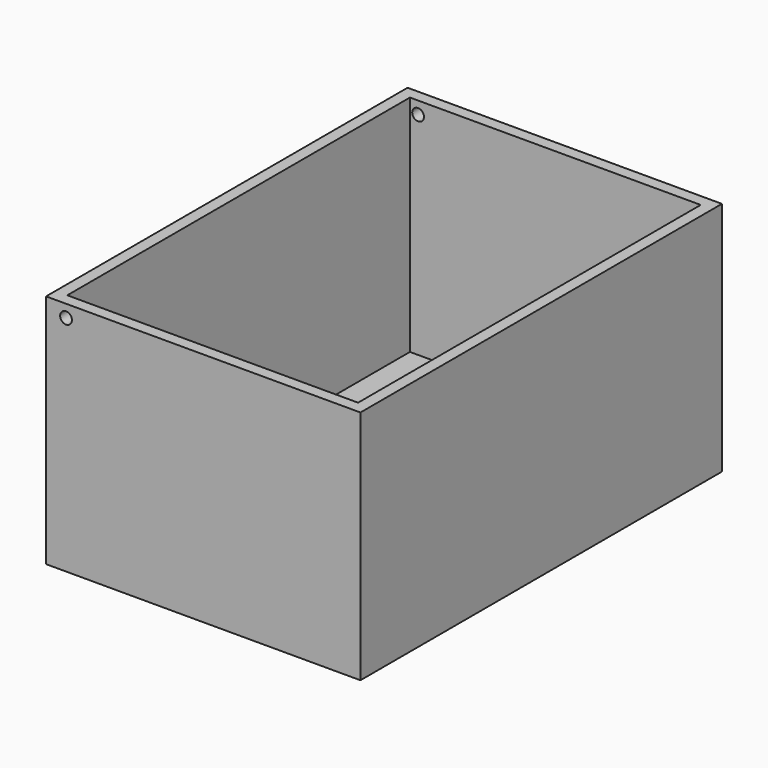
from build123d import *

# Parameters (mm, degrees)
F0_W     = 101.6
F0_H     = 146.05
F1_DEPTH = 76.2
F2_T     = -3.81
F4_D     = 3.81


with BuildPart() as f1:
    # F0 (on Top) → F1 (new body)
    with BuildSketch(Plane.XY):
        with Locations((-15.204069, -1.90385)):
            Rectangle(F0_W, F0_H)
    extrude(amount=F1_DEPTH)

    # F2
    f2_openings = [f1.faces().sort_by_distance(p)[0] for p in [
        (-15.204069, -1.90385, 76.2),
    ]]
    offset(amount=F2_T, openings=f2_openings)

    # F4 (through all)
    with Locations(Plane(origin=(0, 71.12115, 0), x_dir=(-1, 0, 0), z_dir=(0, 1, 0))):
        with Locations((59.548918, 72.165899)):
            Hole(F4_D / 2)


solid = f1.part
